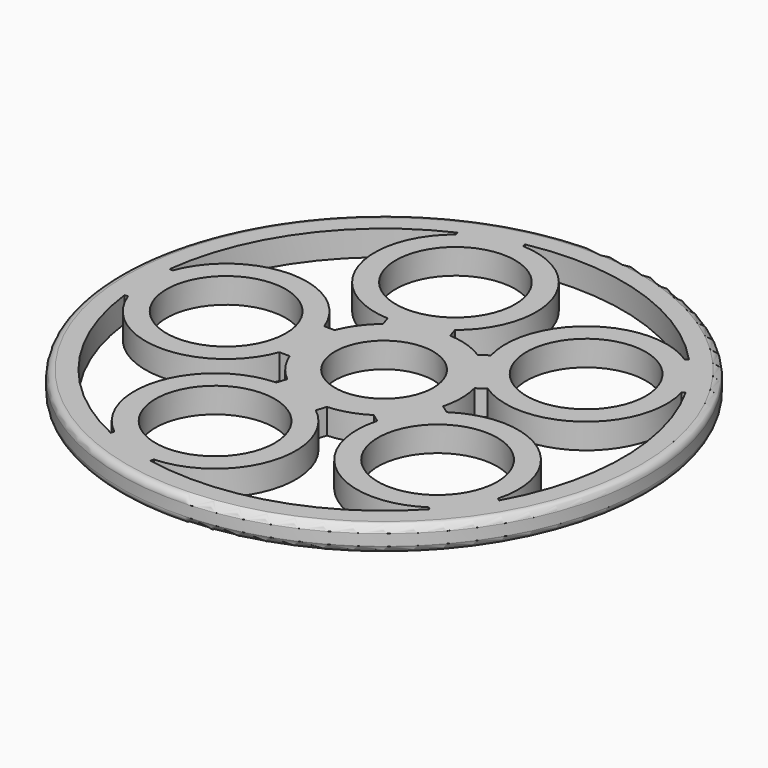
from build123d import *

# Parameters (mm, degrees)
F0_R     = 18.8
F0_R_2   = 4.25
F0_R_3   = 3.5
F1_DEPTH = 1.8
F2_R     = 0.5


with BuildPart() as f1:
    # F0 (on Top) → F1 (new body)
    with BuildSketch(Plane.XY):
        Circle(F0_R)
        with Locations((-3.476441, -10.699386)):
            Circle(F0_R_2, mode=Mode.SUBTRACT)
        with BuildLine():
            Line((-3.485354, -4.254681), (-3.712655, -4.95424))
            ThreePointArc((-3.712655, -4.95424), (-8.945016, -8.922538), (-7.044454, -15.208464))
            Line((-7.044454, -15.208464), (-7.11892, -15.437648))
            ThreePointArc((-7.11892, -15.437648), (-13.753289, -9.992349), (-16.881943, -2))
            Line((-16.881943, -2), (-16.640965, -2))
            ThreePointArc((-16.640965, -2), (-11.25, -5.75), (-5.859035, -2))
            Line((-5.859035, -2), (-5.123475, -2))
            ThreePointArc((-5.123475, -2), (-4.449593, -3.232819), (-3.485354, -4.254681))
        make_face(mode=Mode.SUBTRACT)
        with BuildLine():
            ThreePointArc((12.482208, -11.540991), (5.253289, -16.167961), (-3.314694, -16.673716))
            Line((-3.314694, -16.673716), (-3.240228, -16.444532))
            ThreePointArc((-3.240228, -16.444532), (1.992134, -12.476234), (0.091572, -6.190308))
            Line((0.091572, -6.190308), (0.318872, -5.490749))
            ThreePointArc((0.318872, -5.490749), (1.699593, -5.230811), (2.969408, -4.629537))
            Line((2.969408, -4.629537), (3.564489, -5.061889))
            ThreePointArc((3.564489, -5.061889), (5.721676, -11.264432), (12.287253, -11.399348))
            Line((12.287253, -11.399348), (12.482208, -11.540991))
        make_face(mode=Mode.SUBTRACT)
        with Locations((9.101441, -6.612584)):
            Circle(F0_R_2, mode=Mode.SUBTRACT)
        with Locations((-11.25, 0)):
            Circle(F0_R_2, mode=Mode.SUBTRACT)
        with BuildLine():
            Line((-3.712655, 4.95424), (-3.485354, 4.254681))
            ThreePointArc((-3.485354, 4.254681), (-4.449593, 3.232819), (-5.123475, 2))
            Line((-5.123475, 2), (-5.859035, 2))
            ThreePointArc((-5.859035, 2), (-11.25, 5.75), (-16.640965, 2))
            Line((-16.640965, 2), (-16.881943, 2))
            ThreePointArc((-16.881943, 2), (-13.753289, 9.992349), (-7.11892, 15.437648))
            Line((-7.11892, 15.437648), (-7.044454, 15.208464))
            ThreePointArc((-7.044454, 15.208464), (-8.945016, 8.922538), (-3.712655, 4.95424))
        make_face(mode=Mode.SUBTRACT)
        with Locations((-3.476441, 10.699386)):
            Circle(F0_R_2, mode=Mode.SUBTRACT)
        Circle(F0_R_3, mode=Mode.SUBTRACT)
        with Locations((9.101441, 6.612584)):
            Circle(F0_R_2, mode=Mode.SUBTRACT)
        with BuildLine():
            Line((14.833349, -8.304923), (14.638394, -8.16328))
            ThreePointArc((14.638394, -8.16328), (12.481206, -1.960736), (5.91563, -1.825821))
            Line((5.91563, -1.825821), (5.320549, -1.393469))
            ThreePointArc((5.320549, -1.393469), (5.5, 0), (5.320549, 1.393469))
            Line((5.320549, 1.393469), (5.91563, 1.825821))
            ThreePointArc((5.91563, 1.825821), (12.481206, 1.960736), (14.638394, 8.16328))
            Line((14.638394, 8.16328), (14.833349, 8.304923))
            ThreePointArc((14.833349, 8.304923), (17, 0), (14.833349, -8.304923))
        make_face(mode=Mode.SUBTRACT)
        with BuildLine():
            ThreePointArc((-3.314694, 16.673716), (5.253289, 16.167961), (12.482208, 11.540991))
            Line((12.482208, 11.540991), (12.287253, 11.399348))
            ThreePointArc((12.287253, 11.399348), (5.721676, 11.264432), (3.564489, 5.061889))
            Line((3.564489, 5.061889), (2.969408, 4.629537))
            ThreePointArc((2.969408, 4.629537), (1.699593, 5.230811), (0.318872, 5.490749))
            Line((0.318872, 5.490749), (0.091572, 6.190308))
            ThreePointArc((0.091572, 6.190308), (1.992134, 12.476234), (-3.240228, 16.444532))
            Line((-3.240228, 16.444532), (-3.314694, 16.673716))
        make_face(mode=Mode.SUBTRACT)
    extrude(amount=F1_DEPTH)

    # F2
    f2_edges = [f1.edges().sort_by_distance(p)[0] for p in [
        (-18.8, 0, 1.8),
        (-18.8, 0, 0),
    ]]
    fillet(f2_edges, radius=F2_R)


solid = f1.part
